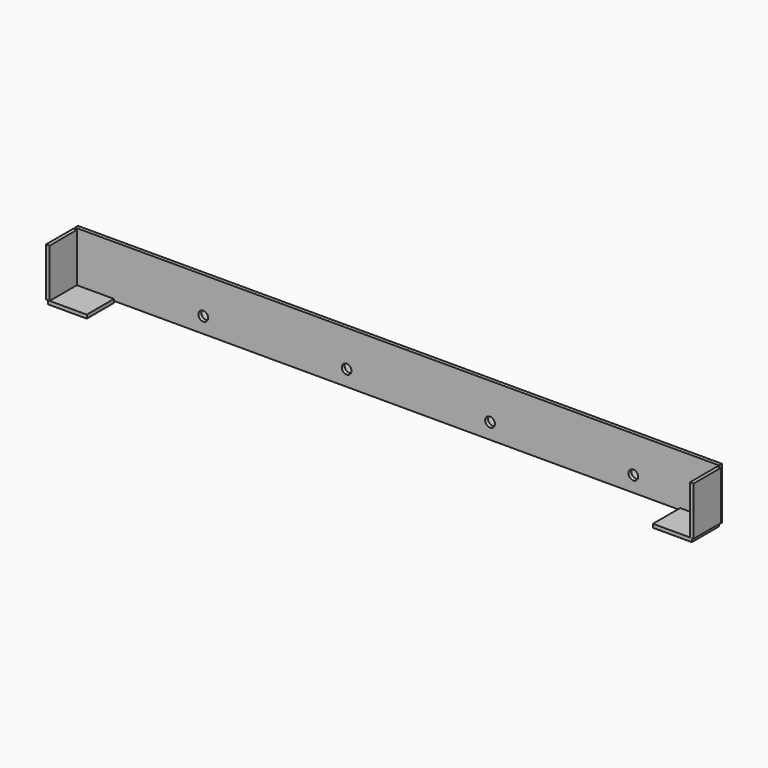
from build123d import *

# Parameters (mm, degrees)
F0_W      = 336.55
F0_H      = 27.178
F1_DEPTH  = 1.8796
F2_W      = 20.32
F2_H      = 17.78
F3_DEPTH  = 0.9398
F4_W      = 17.78
F4_H      = 25.4
F5_DEPTH  = 0.9398
F6_W      = 17.78
F6_H      = 25.4
F7_DEPTH  = 0.9398
F8_W      = 285.75
F8_H      = 18.4404
F9_DEPTH  = 0.9398
F11_D     = 5.08
F11_DEPTH = 25.4
F11_TIP   = 1.5261859723


with BuildPart() as f1:
    # F0 (on Front) → F1 (new body)
    with BuildSketch(Plane.XZ):
        with Locations((17.259075248, 0.2843956463)):
            Rectangle(F0_W, F0_H)
    extrude(amount=F1_DEPTH)

    # F2 (on face) → F3 (join, symmetric)
    with BuildSketch(Plane(origin=(0, 0, -13.3046043537), x_dir=(1, 0, 0), z_dir=(0, 0, -1))):
        with Locations((-140.855924752, 10.7696)):
            Rectangle(F2_W, F2_H)
        with Locations((175.374075248, 10.7696)):
            Rectangle(F2_W, F2_H)
    extrude(amount=F3_DEPTH, both=True)

    # F4 (on face) → F5 (join, symmetric)
    with BuildSketch(Plane(origin=(-151.015924752, 0, 0), x_dir=(0, -1, 0), z_dir=(-1, 0, 0))):
        with Locations((10.7696, 0.3351956463)):
            Rectangle(F4_W, F4_H)
    extrude(amount=F5_DEPTH, both=True)

    # F8 (on face) → F9 (join, symmetric)
    with BuildSketch(Plane(origin=(0, 0, -13.3046043537), x_dir=(1, 0, 0), z_dir=(0, 0, -1))):
        with Locations((12.179075248, -9.2202)):
            Rectangle(F8_W, F8_H)
    extrude(amount=F9_DEPTH, both=True)

    # F11
    with Locations(Plane.XZ.offset(1.8796)):
        with Locations((-84.036124752, -5.1310979761), (-9.106124752, -5.1310979761), (65.823875248, -5.1310979761), (140.753875248, -5.1310979761)):
            Hole(F11_D / 2, depth=F11_DEPTH)
            with Locations((0, 0, -(F11_DEPTH + F11_TIP / 2))):  # 118° drill point
                Cone(0, F11_D / 2, F11_TIP, mode=Mode.SUBTRACT)


with BuildPart() as f7:
    # F6 (on face) → F7 (new body, symmetric)
    with BuildSketch(Plane.YZ.offset(185.534075248)):
        with Locations((-10.7696, 0.3351956463)):
            Rectangle(F6_W, F6_H)
    extrude(amount=F7_DEPTH, both=True)


solid = Compound([f1.part, f7.part])
